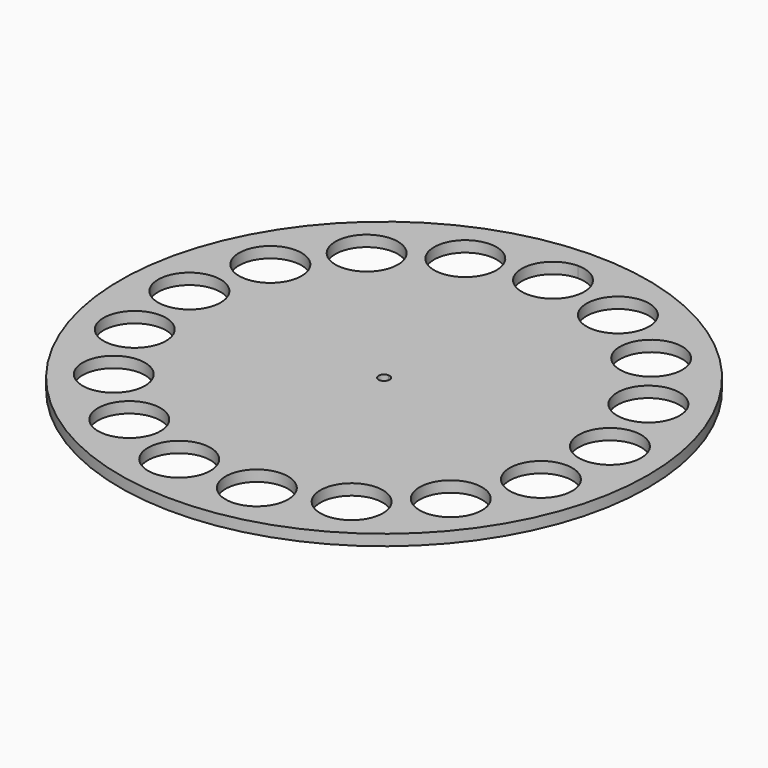
from build123d import *

# Parameters (mm, degrees)
F1_DEPTH  = 25.4
F2_DEPTH  = 3.175
F3_COUNT  = 17
F1_FACE_R = 9.017
F3_FACE_R = 9.017
F4_DEPTH  = 25.4


with BuildPart() as f1:
    # F0 (on Top) → F1 (new body)
    with BuildSketch(Plane.XY):
        with BuildLine():
            ThreePointArc((9.017, 60.96), (6.375981846, 67.335981846), (0, 69.977))
            Line((0, 69.977), (0, 51.943))
            ThreePointArc((0, 51.943), (6.375981846, 54.584018154), (9.017, 60.96))
        make_face()
        with BuildLine():
            Line((0, 51.943), (0, 69.977))
            ThreePointArc((0, 69.977), (-9.017, 60.96), (0, 51.943))
        make_face()
    extrude(amount=F1_DEPTH)


with BuildPart() as f2:
    # F0 (on Top) → F2 (new body)
    with BuildSketch(Plane.XY):
        with BuildLine():
            ThreePointArc((0, 76.2), (-53.8815367264, -53.8815367264), (76.2, 0))
            ThreePointArc((76.2, 0), (53.8815367264, 53.8815367264), (0, 76.2))
        make_face()
        with BuildLine():
            ThreePointArc((1.5875, 0), (-1.1225320151, -1.1225320151), (0, 1.5875))
            ThreePointArc((0, 1.5875), (1.1225320151, 1.1225320151), (1.5875, 0))
        make_face(mode=Mode.SUBTRACT)
        with BuildLine():
            ThreePointArc((0, 51.943), (-9.017, 60.96), (0, 69.977))
            ThreePointArc((0, 69.977), (6.375981846, 67.335981846), (9.017, 60.96))
            ThreePointArc((9.017, 60.96), (6.375981846, 54.584018154), (0, 51.943))
        make_face(mode=Mode.SUBTRACT)
    extrude(amount=F2_DEPTH)


with BuildPart() as f3_1:
    # F3: instance of F1
    add(f1.part.rotate(Axis((0, 0, 3.175), (0, 0, -1)), 1 * 360 / F3_COUNT))


with BuildPart() as f3_2:
    # F3: instance of F1
    add(f1.part.rotate(Axis((0, 0, 3.175), (0, 0, -1)), 2 * 360 / F3_COUNT))


with BuildPart() as f3_3:
    # F3: instance of F1
    add(f1.part.rotate(Axis((0, 0, 3.175), (0, 0, -1)), 3 * 360 / F3_COUNT))


with BuildPart() as f3_4:
    # F3: instance of F1
    add(f1.part.rotate(Axis((0, 0, 3.175), (0, 0, -1)), 4 * 360 / F3_COUNT))


with BuildPart() as f3_5:
    # F3: instance of F1
    add(f1.part.rotate(Axis((0, 0, 3.175), (0, 0, -1)), 5 * 360 / F3_COUNT))


with BuildPart() as f3_6:
    # F3: instance of F1
    add(f1.part.rotate(Axis((0, 0, 3.175), (0, 0, -1)), 6 * 360 / F3_COUNT))


with BuildPart() as f3_7:
    # F3: instance of F1
    add(f1.part.rotate(Axis((0, 0, 3.175), (0, 0, -1)), 7 * 360 / F3_COUNT))


with BuildPart() as f3_8:
    # F3: instance of F1
    add(f1.part.rotate(Axis((0, 0, 3.175), (0, 0, -1)), 8 * 360 / F3_COUNT))


with BuildPart() as f3_9:
    # F3: instance of F1
    add(f1.part.rotate(Axis((0, 0, 3.175), (0, 0, -1)), 9 * 360 / F3_COUNT))


with BuildPart() as f3_10:
    # F3: instance of F1
    add(f1.part.rotate(Axis((0, 0, 3.175), (0, 0, -1)), 10 * 360 / F3_COUNT))


with BuildPart() as f3_11:
    # F3: instance of F1
    add(f1.part.rotate(Axis((0, 0, 3.175), (0, 0, -1)), 11 * 360 / F3_COUNT))


with BuildPart() as f3_12:
    # F3: instance of F1
    add(f1.part.rotate(Axis((0, 0, 3.175), (0, 0, -1)), 12 * 360 / F3_COUNT))


with BuildPart() as f3_13:
    # F3: instance of F1
    add(f1.part.rotate(Axis((0, 0, 3.175), (0, 0, -1)), 13 * 360 / F3_COUNT))


with BuildPart() as f3_14:
    # F3: instance of F1
    add(f1.part.rotate(Axis((0, 0, 3.175), (0, 0, -1)), 14 * 360 / F3_COUNT))


with BuildPart() as f3_15:
    # F3: instance of F1
    add(f1.part.rotate(Axis((0, 0, 3.175), (0, 0, -1)), 15 * 360 / F3_COUNT))


with BuildPart() as f3_16:
    # F3: instance of F1
    add(f1.part.rotate(Axis((0, 0, 3.175), (0, 0, -1)), 16 * 360 / F3_COUNT))


with BuildPart() as f4_tool:
    # F1_face (on face) + F3_face (on face) → F4 (new body)
    with BuildSketch(Plane(origin=(0, 60.96, 25.4), x_dir=(1, 0, 0), z_dir=(0, 0, 1))):
        Circle(F1_FACE_R)
    with BuildSketch(Plane(origin=(22.0212919708, 56.8435071045, 25.4), x_dir=(1, 0, 0), z_dir=(0, 0, 1))):
        Circle(F3_FACE_R)
        with Locations((19.0471944659, -11.7935235107)):
            Circle(F3_FACE_R)
        with Locations((32.5478622702, -29.6712969364)):
            Circle(F3_FACE_R)
        with Locations((38.6786634162, -51.2188279116)):
            Circle(F3_FACE_R)
        with Locations((36.611599237, -73.5260029793)):
            Circle(F3_FACE_R)
        with Locations((26.6258382042, -93.5801145382)):
            Circle(F3_FACE_R)
        with Locations((10.0700126782, -108.6727436986)):
            Circle(F3_FACE_R)
        with Locations((-10.8199213647, -116.7655472612)):
            Circle(F3_FACE_R)
        with Locations((-33.2226625769, -116.7655472612)):
            Circle(F3_FACE_R)
        with Locations((-22.0212919708, 4.1164928955)):
            Circle(F3_FACE_R)
        with Locations((-22.0212919708, 4.1164928955)):
            Circle(F3_FACE_R)
        with Locations((-22.0212919708, 4.1164928955)):
            Circle(F3_FACE_R)
        with Locations((-44.0425839415, 0)):
            Circle(F3_FACE_R)
        with Locations((-63.0897784075, -11.7935235107)):
            Circle(F3_FACE_R)
        with Locations((-76.5904462118, -29.6712969364)):
            Circle(F3_FACE_R)
        with Locations((-80.6541831786, -73.5260029793)):
            Circle(F3_FACE_R)
        with Locations((-70.6684221458, -93.5801145382)):
            Circle(F3_FACE_R)
        with Locations((-54.1125966198, -108.6727436986)):
            Circle(F3_FACE_R)
        with Locations((-82.7212473577, -51.2188279116)):
            Circle(F3_FACE_R)
    extrude(amount=-F4_DEPTH)


with BuildPart() as f1_1:
    add(f1.part)

    # F4: cut by f4_tool
    add(f4_tool.part, mode=Mode.SUBTRACT)


with BuildPart() as f2_1:
    add(f2.part)

    # F4: cut by f4_tool
    add(f4_tool.part, mode=Mode.SUBTRACT)


with BuildPart() as f3_1_1:
    add(f3_1.part)

    # F4: cut by f4_tool
    add(f4_tool.part, mode=Mode.SUBTRACT)


with BuildPart() as f3_2_1:
    add(f3_2.part)

    # F4: cut by f4_tool
    add(f4_tool.part, mode=Mode.SUBTRACT)


with BuildPart() as f3_3_1:
    add(f3_3.part)

    # F4: cut by f4_tool
    add(f4_tool.part, mode=Mode.SUBTRACT)


with BuildPart() as f3_4_1:
    add(f3_4.part)

    # F4: cut by f4_tool
    add(f4_tool.part, mode=Mode.SUBTRACT)


with BuildPart() as f3_5_1:
    add(f3_5.part)

    # F4: cut by f4_tool
    add(f4_tool.part, mode=Mode.SUBTRACT)


with BuildPart() as f3_6_1:
    add(f3_6.part)

    # F4: cut by f4_tool
    add(f4_tool.part, mode=Mode.SUBTRACT)


with BuildPart() as f3_7_1:
    add(f3_7.part)

    # F4: cut by f4_tool
    add(f4_tool.part, mode=Mode.SUBTRACT)


with BuildPart() as f3_8_1:
    add(f3_8.part)

    # F4: cut by f4_tool
    add(f4_tool.part, mode=Mode.SUBTRACT)


with BuildPart() as f3_9_1:
    add(f3_9.part)

    # F4: cut by f4_tool
    add(f4_tool.part, mode=Mode.SUBTRACT)


with BuildPart() as f3_10_1:
    add(f3_10.part)

    # F4: cut by f4_tool
    add(f4_tool.part, mode=Mode.SUBTRACT)


with BuildPart() as f3_11_1:
    add(f3_11.part)

    # F4: cut by f4_tool
    add(f4_tool.part, mode=Mode.SUBTRACT)


with BuildPart() as f3_12_1:
    add(f3_12.part)

    # F4: cut by f4_tool
    add(f4_tool.part, mode=Mode.SUBTRACT)


with BuildPart() as f3_13_1:
    add(f3_13.part)

    # F4: cut by f4_tool
    add(f4_tool.part, mode=Mode.SUBTRACT)


with BuildPart() as f3_14_1:
    add(f3_14.part)

    # F4: cut by f4_tool
    add(f4_tool.part, mode=Mode.SUBTRACT)


with BuildPart() as f3_15_1:
    add(f3_15.part)

    # F4: cut by f4_tool
    add(f4_tool.part, mode=Mode.SUBTRACT)


with BuildPart() as f3_16_1:
    add(f3_16.part)

    # F4: cut by f4_tool
    add(f4_tool.part, mode=Mode.SUBTRACT)


solid = f2_1.part
